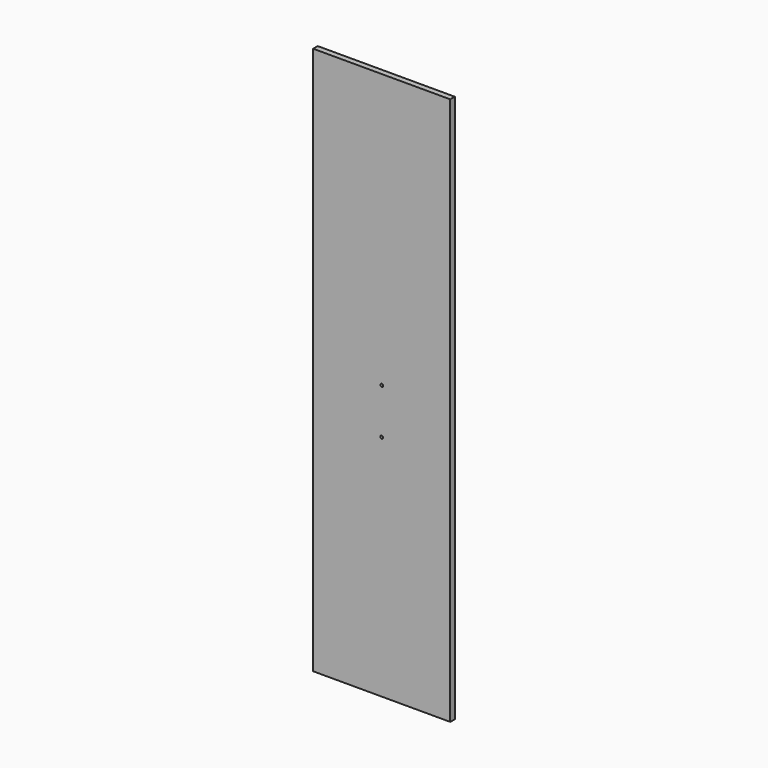
from build123d import *

# Parameters (mm, degrees)
F0_W     = 152.4
F0_H     = 609.6
F1_DEPTH = 6.35
F2_D     = 3.175


with BuildPart() as f1:
    # F0 (on Front) → F1 (new body)
    with BuildSketch(Plane.XZ):
        with Locations((-39.1789237037, 131.6338440617)):
            Rectangle(F0_W, F0_H)
    extrude(amount=F1_DEPTH)

    # F2 (through all)
    with Locations(Plane(origin=(0, 0, 0), x_dir=(1, 0, 0), z_dir=(0, 1, 0))):
        with Locations((-39.1789237037, -131.6338440617), (-39.1789237037, -80.8338440617)):
            Hole(F2_D / 2)


solid = f1.part
